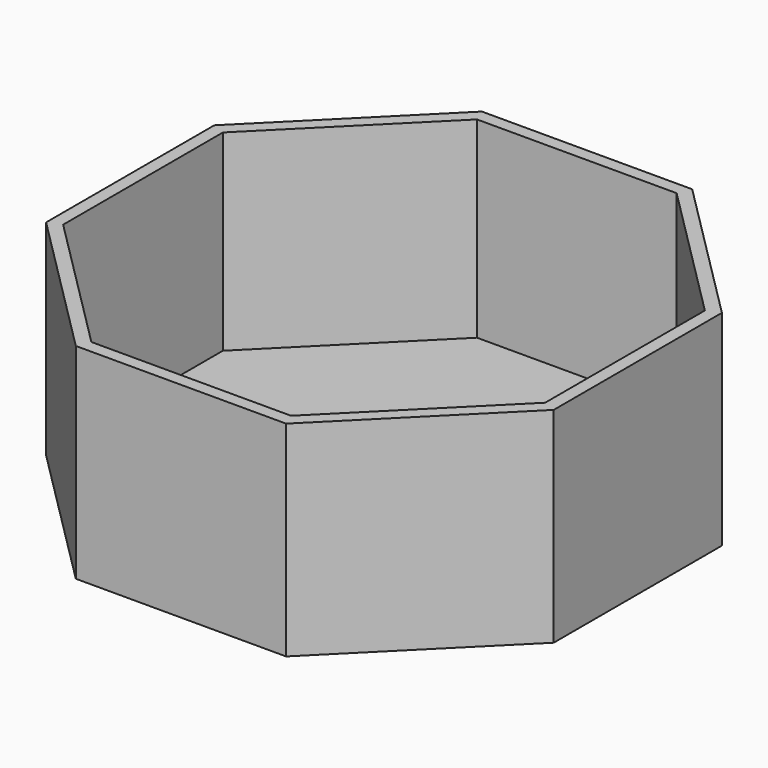
from build123d import *

# Parameters (mm, degrees)
F1_DEPTH = 40.64
F2_T     = -2.54


with BuildPart() as f1:
    # F0 (on Top) → F1 (new body)
    with BuildSketch(Plane.XY):
        Polygon((10.864695, 37.189979), (-30.825583, 37.189979), (-60.305061, 7.710501), (-60.305061, -33.979777), (-30.825583, -63.459255), (10.864695, -63.459255), (40.344173, -33.979777), (40.344173, 7.710501), align=None)
    extrude(amount=F1_DEPTH)

    # F2
    f2_openings = [f1.faces().sort_by_distance(p)[0] for p in [
        (-9.980444, -13.134638, 40.64),
    ]]
    offset(amount=F2_T, openings=f2_openings)


solid = f1.part
